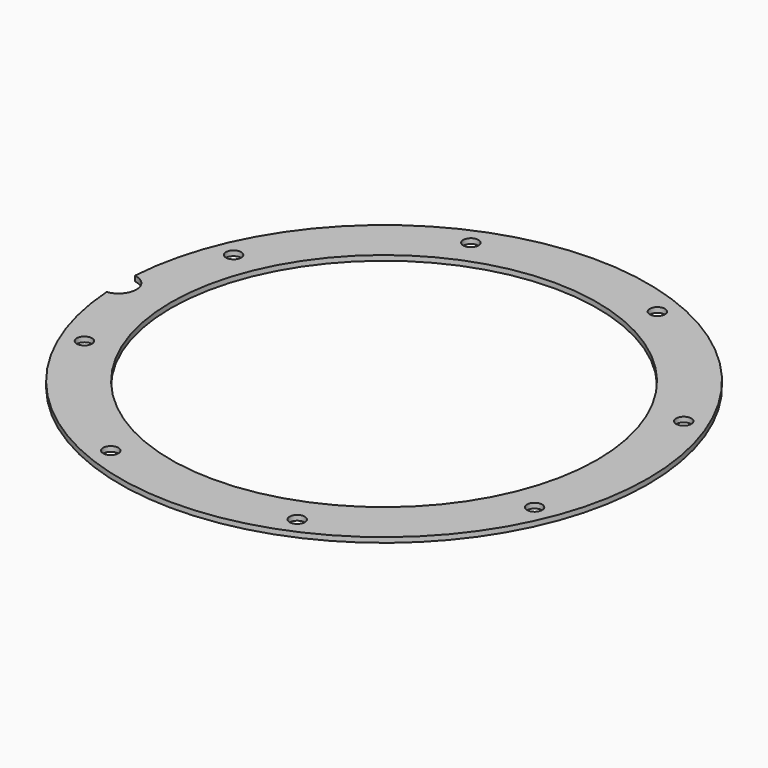
from build123d import *

# Parameters (mm, degrees)
CYLINDER838_R               = 3.5
CYLINDER838_DEPTH           = 20
CYLINDER844_R               = 1.5
CYLINDER844_DEPTH           = 32
CYLINDER844_PLACEMENT_ANGLE = 67.5
CYLINDER845_R               = 1.5
CYLINDER845_DEPTH           = 32
CYLINDER845_PLACEMENT_ANGLE = 112.5
CYLINDER841_R               = 1.5
CYLINDER841_DEPTH           = 32
CYLINDER841_PLACEMENT_ANGLE = 157.5
CYLINDER847_R               = 1.5
CYLINDER847_DEPTH           = 32
CYLINDER847_PLACEMENT_ANGLE = 202.5
CYLINDER839_R               = 1.5
CYLINDER839_DEPTH           = 32
CYLINDER839_PLACEMENT_ANGLE = 112.500026
CYLINDER849_R               = 1.5
CYLINDER849_DEPTH           = 32
CYLINDER849_PLACEMENT_ANGLE = 67.5
CYLINDER848_R               = 1.5
CYLINDER848_DEPTH           = 32
CYLINDER848_PLACEMENT_ANGLE = 22.5
CYLINDER846_R               = 1.5
CYLINDER846_DEPTH           = 32
CYLINDER846_PLACEMENT_ANGLE = 22.5
TUBE080_R                   = 52
TUBE080_R_2                 = 42
TUBE080_DEPTH               = 1


with BuildPart() as obj1:
    # Cylinder838 → Cylinder838 (new body)
    with BuildSketch(Plane(origin=(-52.3, 0, 34), x_dir=(1, 0, 0), z_dir=(0, 0, 1))):
        Circle(CYLINDER838_R)
    extrude(amount=CYLINDER838_DEPTH)


with BuildPart() as obj2:
    # Cylinder844 → Cylinder844 (new body)
    with BuildSketch(Plane.XY):
        Circle(CYLINDER844_R)
    extrude(amount=CYLINDER844_DEPTH)


with BuildPart() as obj2_1:
    # Cylinder844 placement: moved
    add(obj2.part.moved(Location((44.346218, -18.368805, 35.5))).rotate(Axis((44.346218, -18.368805, 35.5), (0, 0, 1)), CYLINDER844_PLACEMENT_ANGLE))


with BuildPart() as obj3:
    # Cylinder845 → Cylinder845 (new body)
    with BuildSketch(Plane.XY):
        Circle(CYLINDER845_R)
    extrude(amount=CYLINDER845_DEPTH)


with BuildPart() as obj3_1:
    # Cylinder845 placement: moved
    add(obj3.part.moved(Location((44.346218, 18.368805, 35.5))).rotate(Axis((44.346218, 18.368805, 35.5), (0, 0, 1)), CYLINDER845_PLACEMENT_ANGLE))


with BuildPart() as obj4:
    # Cylinder841 → Cylinder841 (new body)
    with BuildSketch(Plane.XY):
        Circle(CYLINDER841_R)
    extrude(amount=CYLINDER841_DEPTH)


with BuildPart() as obj4_1:
    # Cylinder841 placement: moved
    add(obj4.part.moved(Location((18.368805, 44.346218, 35.5))).rotate(Axis((18.368805, 44.346218, 35.5), (0, 0, 1)), CYLINDER841_PLACEMENT_ANGLE))


with BuildPart() as obj5:
    # Cylinder847 → Cylinder847 (new body)
    with BuildSketch(Plane.XY):
        Circle(CYLINDER847_R)
    extrude(amount=CYLINDER847_DEPTH)


with BuildPart() as obj5_1:
    # Cylinder847 placement: moved
    add(obj5.part.moved(Location((-18.368805, 44.346218, 35.5))).rotate(Axis((-18.368805, 44.346218, 35.5), (0, 0, 1)), CYLINDER847_PLACEMENT_ANGLE))


with BuildPart() as obj6:
    # Cylinder839 → Cylinder839 (new body)
    with BuildSketch(Plane.XY):
        Circle(CYLINDER839_R)
    extrude(amount=CYLINDER839_DEPTH)


with BuildPart() as obj6_1:
    # Cylinder839 placement: moved
    add(obj6.part.moved(Location((-44.346218, 18.368805, 35.5))).rotate(Axis((-44.346218, 18.368805, 35.5), (0, 0, -1)), CYLINDER839_PLACEMENT_ANGLE))


with BuildPart() as obj7:
    # Cylinder849 → Cylinder849 (new body)
    with BuildSketch(Plane.XY):
        Circle(CYLINDER849_R)
    extrude(amount=CYLINDER849_DEPTH)


with BuildPart() as obj7_1:
    # Cylinder849 placement: moved
    add(obj7.part.moved(Location((-44.346218, -18.368805, 35.5))).rotate(Axis((-44.346218, -18.368805, 35.5), (0, 0, -1)), CYLINDER849_PLACEMENT_ANGLE))


with BuildPart() as obj8:
    # Cylinder848 → Cylinder848 (new body)
    with BuildSketch(Plane.XY):
        Circle(CYLINDER848_R)
    extrude(amount=CYLINDER848_DEPTH)


with BuildPart() as obj8_1:
    # Cylinder848 placement: moved
    add(obj8.part.moved(Location((-18.368805, -44.346218, 35.5))).rotate(Axis((-18.368805, -44.346218, 35.5), (0, 0, -1)), CYLINDER848_PLACEMENT_ANGLE))


with BuildPart() as compound753:
    # Cylinder846 → Cylinder846 (new body)
    with BuildSketch(Plane.XY):
        Circle(CYLINDER846_R)
    extrude(amount=CYLINDER846_DEPTH)


with BuildPart() as compound753_1:
    # Cylinder846 placement: moved
    add(compound753.part.moved(Location((18.368805, -44.346218, 35.5))).rotate(Axis((18.368805, -44.346218, 35.5), (0, 0, 1)), CYLINDER846_PLACEMENT_ANGLE))

    # Compound753: union obj2, obj3, obj4, obj5, obj6, obj7, obj8
    add(obj2_1.part)
    add(obj3_1.part)
    add(obj4_1.part)
    add(obj5_1.part)
    add(obj6_1.part)
    add(obj7_1.part)
    add(obj8_1.part)


with BuildPart() as cut386:
    # Tube080 → Tube080 (new body)
    with BuildSketch(Plane.XY.offset(37)):
        Circle(TUBE080_R)
        Circle(TUBE080_R_2, mode=Mode.SUBTRACT)
    extrude(amount=TUBE080_DEPTH)

    # Cut385: cut Compound753
    add(compound753_1.part, mode=Mode.SUBTRACT)

    # Cut386: cut obj1
    add(obj1.part, mode=Mode.SUBTRACT)


with BuildPart() as cut386_1:
    # Cut386 placement: moved
    add(cut386.part.moved(Location((0, 0, 8))))


solid = cut386_1.part
